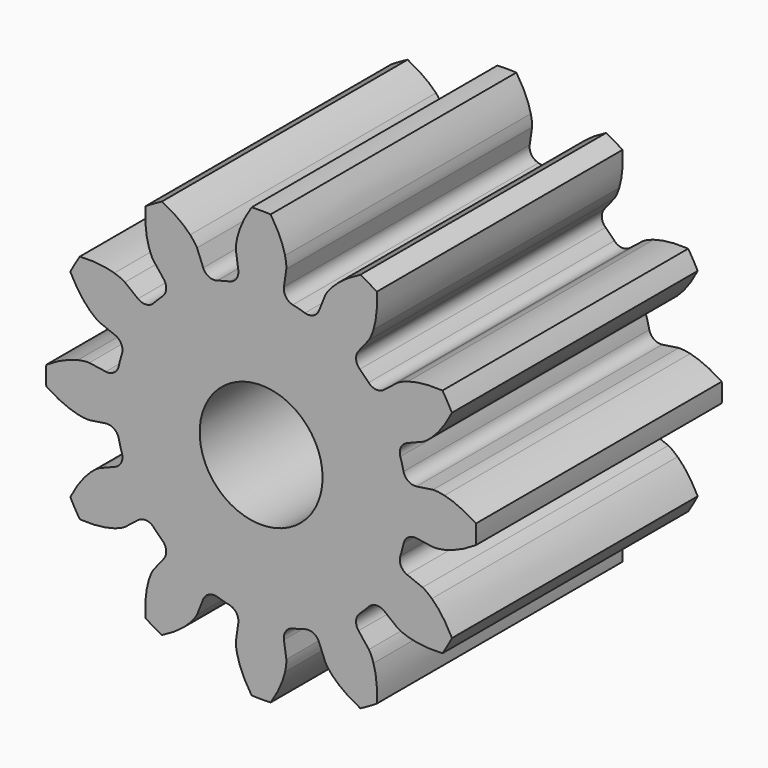
from build123d import *

# Parameters (mm, degrees)
CYLINDER_R                              = 1
CYLINDER_DEPTH                          = 5
CYLINDER_ROLL_ANGLE                     = 90
EXTRUDE185_DEPTH                        = 5
EXTRUDE185_ONTO_INVOLUTEGEAR_ROLL_ANGLE = 90


with BuildPart() as cylinder:
    # Cylinder → Cylinder (new body)
    with BuildSketch(Plane.XY):
        Circle(CYLINDER_R)
    extrude(amount=CYLINDER_DEPTH)


with BuildPart() as cylinder_1:
    # Cylinder roll: moved
    add(cylinder.part.rotate(Axis((0, 0, 0), (1, 0, 0)), CYLINDER_ROLL_ANGLE))


with BuildPart() as cylinder_2:
    # Cylinder placement: moved
    add(cylinder_1.part.moved(Location((-29, 37, 8.5))))


with BuildPart() as cut083:
    # InvoluteGear as drawn → Extrude185 (new)
    with BuildSketch(Plane.XY):
        with BuildLine():
            Line((2.528514, -0.371303), (2.797114, -0.410332))
            add(Edge.make_bspline(
                [(2.797114, -0.410332), (2.817791, -0.411804), (2.879869, -0.41318), (2.984231, -0.389418)],
                knots=[0, 0, 0, 0, 1, 1, 1, 1], degree=3))
            add(Edge.make_bspline(
                [(2.984231, -0.389418), (3.108457, -0.360405), (3.285345, -0.29598), (3.497257, -0.154878)],
                knots=[0, 0, 0, 0, 1, 1, 1, 1], degree=3))
            ThreePointArc((3.497257, -0.154878), (3.500685, 0), (3.497257, 0.154878))
            add(Edge.make_bspline(
                [(3.497257, 0.154878), (3.285345, 0.29598), (3.108457, 0.360405), (2.984231, 0.389418)],
                knots=[0, 0, 0, 0, 1, 1, 1, 1], degree=3))
            add(Edge.make_bspline(
                [(2.984231, 0.389418), (2.879869, 0.41318), (2.817791, 0.411804), (2.797114, 0.410332)],
                knots=[0, 0, 0, 0, 1, 1, 1, 1], degree=3))
            Line((2.797114, 0.410332), (2.528514, 0.371303))
            ThreePointArc((2.528514, 0.371303), (2.395133, 0.402247), (2.318354, 0.515617))
            ThreePointArc((2.318354, 0.515617), (2.294074, 0.614695), (2.265562, 0.712639))
            ThreePointArc((2.265562, 0.712639), (2.27537, 0.849211), (2.375409, 0.9427))
            Line((2.375409, 0.9427), (2.627538, 1.043199))
            add(Edge.make_bspline(
                [(2.627538, 1.043199), (2.646181, 1.052262), (2.700629, 1.08211), (2.779129, 1.154869)],
                knots=[0, 0, 0, 0, 1, 1, 1, 1], degree=3))
            add(Edge.make_bspline(
                [(2.779129, 1.154869), (2.872205, 1.242109), (2.993182, 1.386346), (3.106152, 1.6145)],
                knots=[0, 0, 0, 0, 1, 1, 1, 1], degree=3))
            ThreePointArc((3.106152, 1.6145), (3.031682, 1.750343), (2.951274, 1.882757))
            add(Edge.make_bspline(
                [(2.951274, 1.882757), (2.697202, 1.898999), (2.5118, 1.866348), (2.389711, 1.829362)],
                knots=[0, 0, 0, 0, 1, 1, 1, 1], degree=3))
            add(Edge.make_bspline(
                [(2.389711, 1.829362), (2.28745, 1.797759), (2.234376, 1.765528), (2.217206, 1.753915)],
                knots=[0, 0, 0, 0, 1, 1, 1, 1], degree=3))
            Line((2.217206, 1.753915), (2.004106, 1.585815))
            ThreePointArc((2.004106, 1.585815), (1.873123, 1.545922), (1.749945, 1.605714))
            ThreePointArc((1.749945, 1.605714), (1.679379, 1.679379), (1.605714, 1.749945))
            ThreePointArc((1.605714, 1.749945), (1.545922, 1.873123), (1.585815, 2.004106))
            Line((1.585815, 2.004106), (1.753915, 2.217206))
            add(Edge.make_bspline(
                [(1.753915, 2.217206), (1.765528, 2.234376), (1.797759, 2.28745), (1.829362, 2.389711)],
                knots=[0, 0, 0, 0, 1, 1, 1, 1], degree=3))
            add(Edge.make_bspline(
                [(1.829362, 2.389711), (1.866348, 2.5118), (1.898999, 2.697202), (1.882757, 2.951274)],
                knots=[0, 0, 0, 0, 1, 1, 1, 1], degree=3))
            ThreePointArc((1.882757, 2.951274), (1.750343, 3.031682), (1.6145, 3.106152))
            add(Edge.make_bspline(
                [(1.6145, 3.106152), (1.386346, 2.993182), (1.242109, 2.872205), (1.154869, 2.779129)],
                knots=[0, 0, 0, 0, 1, 1, 1, 1], degree=3))
            add(Edge.make_bspline(
                [(1.154869, 2.779129), (1.08211, 2.700629), (1.052262, 2.646181), (1.043199, 2.627538)],
                knots=[0, 0, 0, 0, 1, 1, 1, 1], degree=3))
            Line((1.043199, 2.627538), (0.9427, 2.375409))
            ThreePointArc((0.9427, 2.375409), (0.849211, 2.27537), (0.712639, 2.265562))
            ThreePointArc((0.712639, 2.265562), (0.614695, 2.294074), (0.515617, 2.318354))
            ThreePointArc((0.515617, 2.318354), (0.402247, 2.395133), (0.371303, 2.528514))
            Line((0.371303, 2.528514), (0.410332, 2.797114))
            add(Edge.make_bspline(
                [(0.410332, 2.797114), (0.411804, 2.817791), (0.41318, 2.879869), (0.389418, 2.984231)],
                knots=[0, 0, 0, 0, 1, 1, 1, 1], degree=3))
            add(Edge.make_bspline(
                [(0.389418, 2.984231), (0.360405, 3.108457), (0.29598, 3.285345), (0.154878, 3.497257)],
                knots=[0, 0, 0, 0, 1, 1, 1, 1], degree=3))
            ThreePointArc((0.154878, 3.497257), (0, 3.500685), (-0.154878, 3.497257))
            add(Edge.make_bspline(
                [(-0.154878, 3.497257), (-0.29598, 3.285345), (-0.360405, 3.108457), (-0.389418, 2.984231)],
                knots=[0, 0, 0, 0, 1, 1, 1, 1], degree=3))
            add(Edge.make_bspline(
                [(-0.389418, 2.984231), (-0.41318, 2.879869), (-0.411804, 2.817791), (-0.410332, 2.797114)],
                knots=[0, 0, 0, 0, 1, 1, 1, 1], degree=3))
            Line((-0.410332, 2.797114), (-0.371303, 2.528514))
            ThreePointArc((-0.371303, 2.528514), (-0.402247, 2.395133), (-0.515617, 2.318354))
            ThreePointArc((-0.515617, 2.318354), (-0.614695, 2.294074), (-0.712639, 2.265562))
            ThreePointArc((-0.712639, 2.265562), (-0.849211, 2.27537), (-0.9427, 2.375409))
            Line((-0.9427, 2.375409), (-1.043199, 2.627538))
            add(Edge.make_bspline(
                [(-1.043199, 2.627538), (-1.052262, 2.646181), (-1.08211, 2.700629), (-1.154869, 2.779129)],
                knots=[0, 0, 0, 0, 1, 1, 1, 1], degree=3))
            add(Edge.make_bspline(
                [(-1.154869, 2.779129), (-1.242109, 2.872205), (-1.386346, 2.993182), (-1.6145, 3.106152)],
                knots=[0, 0, 0, 0, 1, 1, 1, 1], degree=3))
            ThreePointArc((-1.6145, 3.106152), (-1.750343, 3.031682), (-1.882757, 2.951274))
            add(Edge.make_bspline(
                [(-1.882757, 2.951274), (-1.898999, 2.697202), (-1.866348, 2.5118), (-1.829362, 2.389711)],
                knots=[0, 0, 0, 0, 1, 1, 1, 1], degree=3))
            add(Edge.make_bspline(
                [(-1.829362, 2.389711), (-1.797759, 2.28745), (-1.765528, 2.234376), (-1.753915, 2.217206)],
                knots=[0, 0, 0, 0, 1, 1, 1, 1], degree=3))
            Line((-1.753915, 2.217206), (-1.585815, 2.004106))
            ThreePointArc((-1.585815, 2.004106), (-1.545922, 1.873123), (-1.605714, 1.749945))
            ThreePointArc((-1.605714, 1.749945), (-1.679379, 1.679379), (-1.749945, 1.605714))
            ThreePointArc((-1.749945, 1.605714), (-1.873123, 1.545922), (-2.004106, 1.585815))
            Line((-2.004106, 1.585815), (-2.217206, 1.753915))
            add(Edge.make_bspline(
                [(-2.217206, 1.753915), (-2.234376, 1.765528), (-2.28745, 1.797759), (-2.389711, 1.829362)],
                knots=[0, 0, 0, 0, 1, 1, 1, 1], degree=3))
            add(Edge.make_bspline(
                [(-2.389711, 1.829362), (-2.5118, 1.866348), (-2.697202, 1.898999), (-2.951274, 1.882757)],
                knots=[0, 0, 0, 0, 1, 1, 1, 1], degree=3))
            ThreePointArc((-2.951274, 1.882757), (-3.031682, 1.750343), (-3.106152, 1.6145))
            add(Edge.make_bspline(
                [(-3.106152, 1.6145), (-2.993182, 1.386346), (-2.872205, 1.242109), (-2.779129, 1.154869)],
                knots=[0, 0, 0, 0, 1, 1, 1, 1], degree=3))
            add(Edge.make_bspline(
                [(-2.779129, 1.154869), (-2.700629, 1.08211), (-2.646181, 1.052262), (-2.627538, 1.043199)],
                knots=[0, 0, 0, 0, 1, 1, 1, 1], degree=3))
            Line((-2.627538, 1.043199), (-2.375409, 0.9427))
            ThreePointArc((-2.375409, 0.9427), (-2.27537, 0.849211), (-2.265562, 0.712639))
            ThreePointArc((-2.265562, 0.712639), (-2.294074, 0.614695), (-2.318354, 0.515617))
            ThreePointArc((-2.318354, 0.515617), (-2.395133, 0.402247), (-2.528514, 0.371303))
            Line((-2.528514, 0.371303), (-2.797114, 0.410332))
            add(Edge.make_bspline(
                [(-2.797114, 0.410332), (-2.817791, 0.411804), (-2.879869, 0.41318), (-2.984231, 0.389418)],
                knots=[0, 0, 0, 0, 1, 1, 1, 1], degree=3))
            add(Edge.make_bspline(
                [(-2.984231, 0.389418), (-3.108457, 0.360405), (-3.285345, 0.29598), (-3.497257, 0.154878)],
                knots=[0, 0, 0, 0, 1, 1, 1, 1], degree=3))
            ThreePointArc((-3.497257, 0.154878), (-3.500685, 0), (-3.497257, -0.154878))
            add(Edge.make_bspline(
                [(-3.497257, -0.154878), (-3.285345, -0.29598), (-3.108457, -0.360405), (-2.984231, -0.389418)],
                knots=[0, 0, 0, 0, 1, 1, 1, 1], degree=3))
            add(Edge.make_bspline(
                [(-2.984231, -0.389418), (-2.879869, -0.41318), (-2.817791, -0.411804), (-2.797114, -0.410332)],
                knots=[0, 0, 0, 0, 1, 1, 1, 1], degree=3))
            Line((-2.797114, -0.410332), (-2.528514, -0.371303))
            ThreePointArc((-2.528514, -0.371303), (-2.395133, -0.402247), (-2.318354, -0.515617))
            ThreePointArc((-2.318354, -0.515617), (-2.294074, -0.614695), (-2.265562, -0.712639))
            ThreePointArc((-2.265562, -0.712639), (-2.27537, -0.849211), (-2.375409, -0.9427))
            Line((-2.375409, -0.9427), (-2.627538, -1.043199))
            add(Edge.make_bspline(
                [(-2.627538, -1.043199), (-2.646181, -1.052262), (-2.700629, -1.08211), (-2.779129, -1.154869)],
                knots=[0, 0, 0, 0, 1, 1, 1, 1], degree=3))
            add(Edge.make_bspline(
                [(-2.779129, -1.154869), (-2.872205, -1.242109), (-2.993182, -1.386346), (-3.106152, -1.6145)],
                knots=[0, 0, 0, 0, 1, 1, 1, 1], degree=3))
            ThreePointArc((-3.106152, -1.6145), (-3.031682, -1.750343), (-2.951274, -1.882757))
            add(Edge.make_bspline(
                [(-2.951274, -1.882757), (-2.697202, -1.898999), (-2.5118, -1.866348), (-2.389711, -1.829362)],
                knots=[0, 0, 0, 0, 1, 1, 1, 1], degree=3))
            add(Edge.make_bspline(
                [(-2.389711, -1.829362), (-2.28745, -1.797759), (-2.234376, -1.765528), (-2.217206, -1.753915)],
                knots=[0, 0, 0, 0, 1, 1, 1, 1], degree=3))
            Line((-2.217206, -1.753915), (-2.004106, -1.585815))
            ThreePointArc((-2.004106, -1.585815), (-1.873123, -1.545922), (-1.749945, -1.605714))
            ThreePointArc((-1.749945, -1.605714), (-1.679379, -1.679379), (-1.605714, -1.749945))
            ThreePointArc((-1.605714, -1.749945), (-1.545922, -1.873123), (-1.585815, -2.004106))
            Line((-1.585815, -2.004106), (-1.753915, -2.217206))
            add(Edge.make_bspline(
                [(-1.753915, -2.217206), (-1.765528, -2.234376), (-1.797759, -2.28745), (-1.829362, -2.389711)],
                knots=[0, 0, 0, 0, 1, 1, 1, 1], degree=3))
            add(Edge.make_bspline(
                [(-1.829362, -2.389711), (-1.866348, -2.5118), (-1.898999, -2.697202), (-1.882757, -2.951274)],
                knots=[0, 0, 0, 0, 1, 1, 1, 1], degree=3))
            ThreePointArc((-1.882757, -2.951274), (-1.750343, -3.031682), (-1.6145, -3.106152))
            add(Edge.make_bspline(
                [(-1.6145, -3.106152), (-1.386346, -2.993182), (-1.242109, -2.872205), (-1.154869, -2.779129)],
                knots=[0, 0, 0, 0, 1, 1, 1, 1], degree=3))
            add(Edge.make_bspline(
                [(-1.154869, -2.779129), (-1.08211, -2.700629), (-1.052262, -2.646181), (-1.043199, -2.627538)],
                knots=[0, 0, 0, 0, 1, 1, 1, 1], degree=3))
            Line((-1.043199, -2.627538), (-0.9427, -2.375409))
            ThreePointArc((-0.9427, -2.375409), (-0.849211, -2.27537), (-0.712639, -2.265562))
            ThreePointArc((-0.712639, -2.265562), (-0.614695, -2.294074), (-0.515617, -2.318354))
            ThreePointArc((-0.515617, -2.318354), (-0.402247, -2.395133), (-0.371303, -2.528514))
            Line((-0.371303, -2.528514), (-0.410332, -2.797114))
            add(Edge.make_bspline(
                [(-0.410332, -2.797114), (-0.411804, -2.817791), (-0.41318, -2.879869), (-0.389418, -2.984231)],
                knots=[0, 0, 0, 0, 1, 1, 1, 1], degree=3))
            add(Edge.make_bspline(
                [(-0.389418, -2.984231), (-0.360405, -3.108457), (-0.29598, -3.285345), (-0.154878, -3.497257)],
                knots=[0, 0, 0, 0, 1, 1, 1, 1], degree=3))
            ThreePointArc((-0.154878, -3.497257), (0, -3.500685), (0.154878, -3.497257))
            add(Edge.make_bspline(
                [(0.154878, -3.497257), (0.29598, -3.285345), (0.360405, -3.108457), (0.389418, -2.984231)],
                knots=[0, 0, 0, 0, 1, 1, 1, 1], degree=3))
            add(Edge.make_bspline(
                [(0.389418, -2.984231), (0.41318, -2.879869), (0.411804, -2.817791), (0.410332, -2.797114)],
                knots=[0, 0, 0, 0, 1, 1, 1, 1], degree=3))
            Line((0.410332, -2.797114), (0.371303, -2.528514))
            ThreePointArc((0.371303, -2.528514), (0.402247, -2.395133), (0.515617, -2.318354))
            ThreePointArc((0.515617, -2.318354), (0.614695, -2.294074), (0.712639, -2.265562))
            ThreePointArc((0.712639, -2.265562), (0.849211, -2.27537), (0.9427, -2.375409))
            Line((0.9427, -2.375409), (1.043199, -2.627538))
            add(Edge.make_bspline(
                [(1.043199, -2.627538), (1.052262, -2.646181), (1.08211, -2.700629), (1.154869, -2.779129)],
                knots=[0, 0, 0, 0, 1, 1, 1, 1], degree=3))
            add(Edge.make_bspline(
                [(1.154869, -2.779129), (1.242109, -2.872205), (1.386346, -2.993182), (1.6145, -3.106152)],
                knots=[0, 0, 0, 0, 1, 1, 1, 1], degree=3))
            ThreePointArc((1.6145, -3.106152), (1.750343, -3.031682), (1.882757, -2.951274))
            add(Edge.make_bspline(
                [(1.882757, -2.951274), (1.898999, -2.697202), (1.866348, -2.5118), (1.829362, -2.389711)],
                knots=[0, 0, 0, 0, 1, 1, 1, 1], degree=3))
            add(Edge.make_bspline(
                [(1.829362, -2.389711), (1.797759, -2.28745), (1.765528, -2.234376), (1.753915, -2.217206)],
                knots=[0, 0, 0, 0, 1, 1, 1, 1], degree=3))
            Line((1.753915, -2.217206), (1.585815, -2.004106))
            ThreePointArc((1.585815, -2.004106), (1.545922, -1.873123), (1.605714, -1.749945))
            ThreePointArc((1.605714, -1.749945), (1.679379, -1.679379), (1.749945, -1.605714))
            ThreePointArc((1.749945, -1.605714), (1.873123, -1.545922), (2.004106, -1.585815))
            Line((2.004106, -1.585815), (2.217206, -1.753915))
            add(Edge.make_bspline(
                [(2.217206, -1.753915), (2.234376, -1.765528), (2.28745, -1.797759), (2.389711, -1.829362)],
                knots=[0, 0, 0, 0, 1, 1, 1, 1], degree=3))
            add(Edge.make_bspline(
                [(2.389711, -1.829362), (2.5118, -1.866348), (2.697202, -1.898999), (2.951274, -1.882757)],
                knots=[0, 0, 0, 0, 1, 1, 1, 1], degree=3))
            ThreePointArc((2.951274, -1.882757), (3.031682, -1.750343), (3.106152, -1.6145))
            add(Edge.make_bspline(
                [(3.106152, -1.6145), (2.993182, -1.386346), (2.872205, -1.242109), (2.779129, -1.154869)],
                knots=[0, 0, 0, 0, 1, 1, 1, 1], degree=3))
            add(Edge.make_bspline(
                [(2.779129, -1.154869), (2.700629, -1.08211), (2.646181, -1.052262), (2.627538, -1.043199)],
                knots=[0, 0, 0, 0, 1, 1, 1, 1], degree=3))
            Line((2.627538, -1.043199), (2.375409, -0.9427))
            ThreePointArc((2.375409, -0.9427), (2.27537, -0.849211), (2.265562, -0.712639))
            ThreePointArc((2.265562, -0.712639), (2.294074, -0.614695), (2.318354, -0.515617))
            ThreePointArc((2.318354, -0.515617), (2.395133, -0.402247), (2.528514, -0.371303))
        make_face()
    extrude(amount=-EXTRUDE185_DEPTH)


with BuildPart() as cut083_1:
    # Extrude185 onto InvoluteGear roll: moved
    add(cut083.part.rotate(Axis((0, 0, 0), (1, 0, 0)), EXTRUDE185_ONTO_INVOLUTEGEAR_ROLL_ANGLE))


with BuildPart() as cut083_2:
    # Extrude185 onto InvoluteGear placement: moved
    add(cut083_1.part.moved(Location((-29, 32, 8.5))))

    # Cut083: cut Cylinder
    add(cylinder_2.part, mode=Mode.SUBTRACT)


with BuildPart() as cut083_3:
    # Cut083 placement: moved
    add(cut083_2.part.moved(Location((-1, -14, 0))))


solid = cut083_3.part
